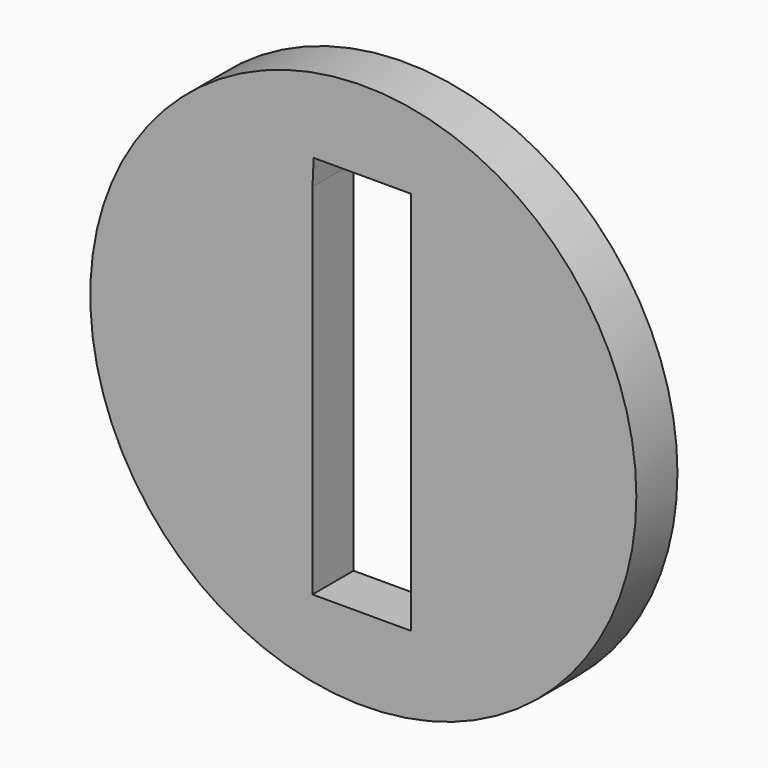
from build123d import *

# Parameters (mm, degrees)
F0_R     = 67.471855
F1_DEPTH = 12.7
F3_DEPTH = 12.7


with BuildPart() as f1:
    # F0 (on Front) → F1 (new body)
    with BuildSketch(Plane.XZ):
        Circle(F0_R)
    extrude(amount=F1_DEPTH)

    # F2 (on face) → F3 (cut)
    with BuildSketch(Plane.XZ.offset(12.7)):
        Polygon((-12.2623, 47.785219), (-12.55971, 41.400526), (-12.55971, -47.292732), (11.735013, -47.292732), (11.735013, 47.785219), align=None)
    extrude(amount=-F3_DEPTH, mode=Mode.SUBTRACT)


solid = f1.part
